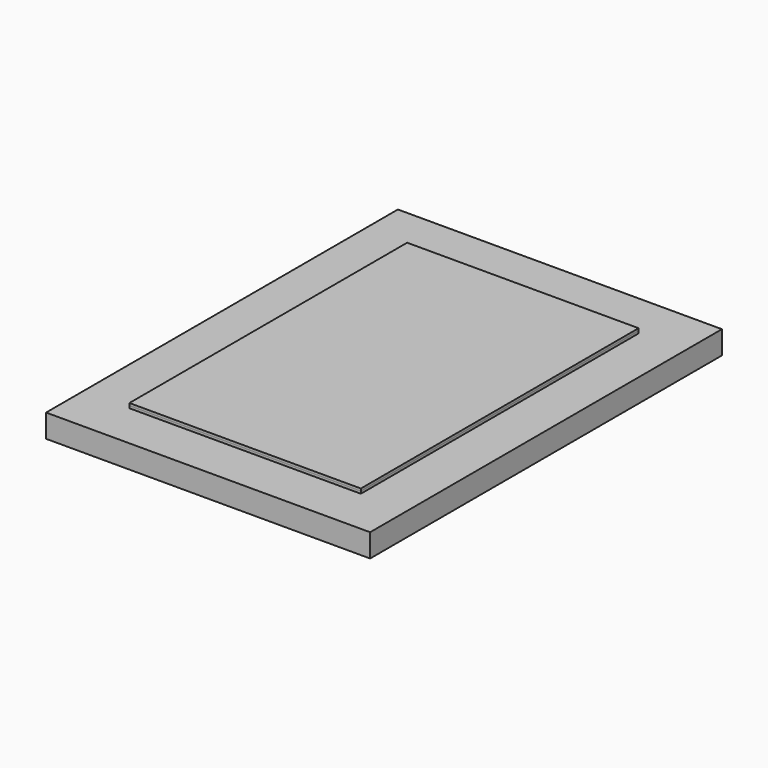
from build123d import *

# Parameters (mm, degrees)
F0_W      = 100
F0_H      = 150
F1_DEPTH  = 11
F0_W_2    = 140
F0_H_2    = 190
F2_DEPTH  = 10
F1_FACE_W = 100
F1_FACE_H = 150
F3_DEPTH  = 1


with BuildPart() as f1:
    # F0 (on Top) → F1 (new body)
    with BuildSketch(Plane.XY):
        Rectangle(F0_W, F0_H)
    extrude(amount=F1_DEPTH)

    # F0 (on Top) → F2 (join)
    with BuildSketch(Plane.XY):
        Rectangle(F0_W_2, F0_H_2)
        Rectangle(F0_W, F0_H, mode=Mode.SUBTRACT)
    extrude(amount=F2_DEPTH)


with BuildPart() as f3:
    # F1_face (on face) → F3 (new body)
    with BuildSketch(Plane.XY.offset(11)):
        Rectangle(F1_FACE_W, F1_FACE_H)
    extrude(amount=F3_DEPTH)


solid = Compound([f1.part, f3.part])
